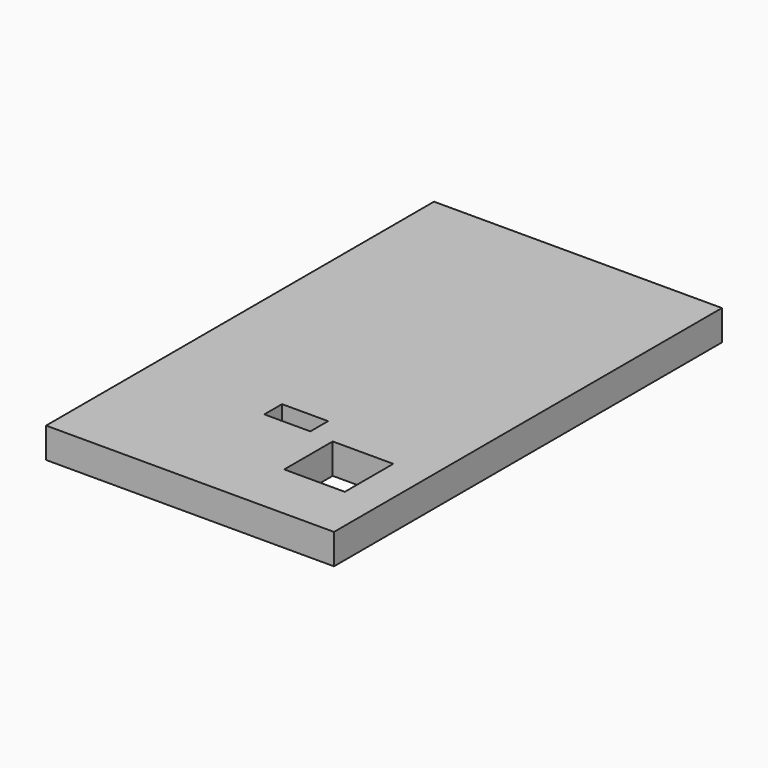
from build123d import *

# Parameters (mm, degrees)
F0_W     = 120.65
F0_H     = 203.2
F1_DEPTH = 12.7
F2_W     = 9.3
F2_H     = 9.3
F2_W_2   = 0.7
F2_W_3   = 25.4
F2_H_2   = 25.4
F3_DEPTH = 25.4


with BuildPart() as f1:
    # F0 (on Top) → F1 (new body)
    with BuildSketch(Plane.XY):
        with Locations((13.830352, 73.279034)):
            Rectangle(F0_W, F0_H)
    extrude(amount=F1_DEPTH)

    # F2 (on face) → F3 (cut)
    with BuildSketch(Plane.XY.offset(12.7)):
        with Locations((8.955352, 27.129034)):
            Rectangle(F2_W, F2_H)
        with Locations((13.955352, 27.129034)):
            Rectangle(F2_W_2, F2_H)
        with Locations((18.955352, 27.129034)):
            Rectangle(F2_W, F2_H)
        with Locations((46.465352, 8.779034)):
            Rectangle(F2_W_3, F2_H_2)
    extrude(amount=-F3_DEPTH, mode=Mode.SUBTRACT)


solid = f1.part
